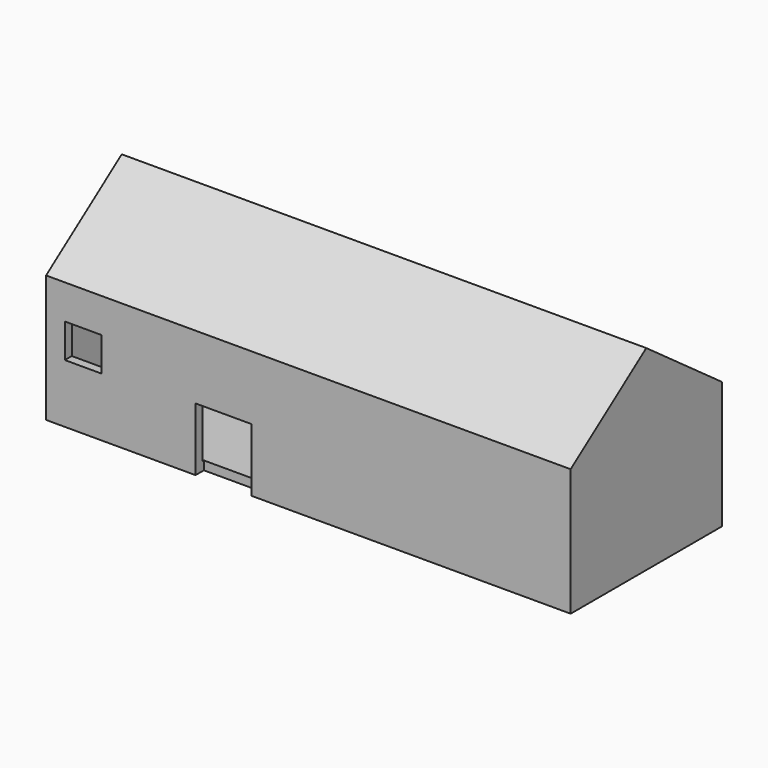
from build123d import *

# Parameters (mm, degrees)
F0_W     = 152.907998
F0_H     = 55.118002
F1_DEPTH = 37.084
F2_T     = -2.54
F3_W     = 16.256001
F3_H     = 18.415
F4_DEPTH = 3.048
F6_DEPTH = 152.908
F7_W     = 10.667999
F7_H     = 9.906002
F8_DEPTH = 2.794


with BuildPart() as f1:
    # F0 (on Top) → F1 (new body)
    with BuildSketch(Plane.XY):
        Rectangle(F0_W, F0_H)
    extrude(amount=F1_DEPTH)

    # F2
    f2_openings = [f1.faces().sort_by_distance(p)[0] for p in [
        (0, 0, 37.084),
    ]]
    offset(amount=F2_T, openings=f2_openings)

    # F3 (on face) → F4 (cut)
    with BuildSketch(Plane.XZ.offset(27.559001)):
        with Locations((-24.765001, 9.2075)):
            Rectangle(F3_W, F3_H)
    extrude(amount=-F4_DEPTH, mode=Mode.SUBTRACT)

    # F5 (on face) → F6 (join)
    with BuildSketch(Plane.YZ.offset(76.453999)):
        Polygon((27.559001, 37.084), (0, 56.972686), (-27.559001, 37.084), align=None)
    extrude(amount=-F6_DEPTH)

    # F7 (on face) → F8 (cut)
    with BuildSketch(Plane.XZ.offset(27.559001)):
        with Locations((-65.658999, 22.098001)):
            Rectangle(F7_W, F7_H)
    extrude(amount=-F8_DEPTH, mode=Mode.SUBTRACT)


solid = f1.part
